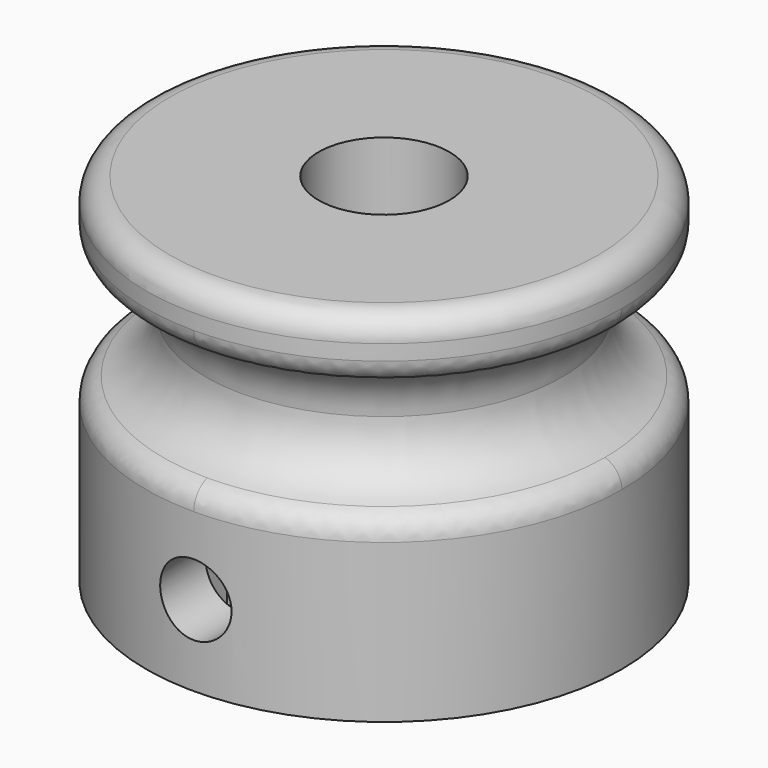
from build123d import *

# Parameters (mm, degrees)
F0_R     = 10
F0_R_2   = 2.75
F1_DEPTH = 15
F2_R     = 2.5
F4_R     = 1
F5_R     = 1.5
F6_DEPTH = 25
F7_W     = 6
F7_H     = 3
F8_DEPTH = 7


with BuildPart() as f1:
    # F0 (on Top) → F1 (new body)
    with BuildSketch(Plane.XY):
        Circle(F0_R)
        Circle(F0_R_2, mode=Mode.SUBTRACT)
    extrude(amount=F1_DEPTH)

    # F2 (on Right) → F3 (revolve, cut)
    with BuildSketch(Plane.YZ):
        with Locations((-10, 10)):
            Circle(F2_R)
    revolve(axis=Axis((0, 0, 15), (0, 0, 1)), mode=Mode.SUBTRACT)

    # F4
    f4_edges = [f1.edges().sort_by_distance(p)[0] for p in [
        (7.071068, -7.071068, 7.5),
        (-7.071068, 7.071068, 7.5),
        (-7.071068, 7.071068, 12.5),
        (7.071068, -7.071068, 12.5),
        (-10, 0, 15),
    ]]
    fillet(f4_edges, radius=F4_R)

    # F5 (on Front) → F6 (cut)
    with BuildSketch(Plane.XZ):
        with Locations((0, 3.3906230694)):
            Circle(F5_R)
    extrude(amount=F6_DEPTH, mode=Mode.SUBTRACT)

    # F7 (on face) → F8 (cut)
    with BuildSketch(Plane(origin=(0, 0, 0), x_dir=(1, 0, 0), z_dir=(0, 0, -1))):
        with Locations((0, 6)):
            Rectangle(F7_W, F7_H)
    extrude(amount=-F8_DEPTH, mode=Mode.SUBTRACT)


solid = f1.part
